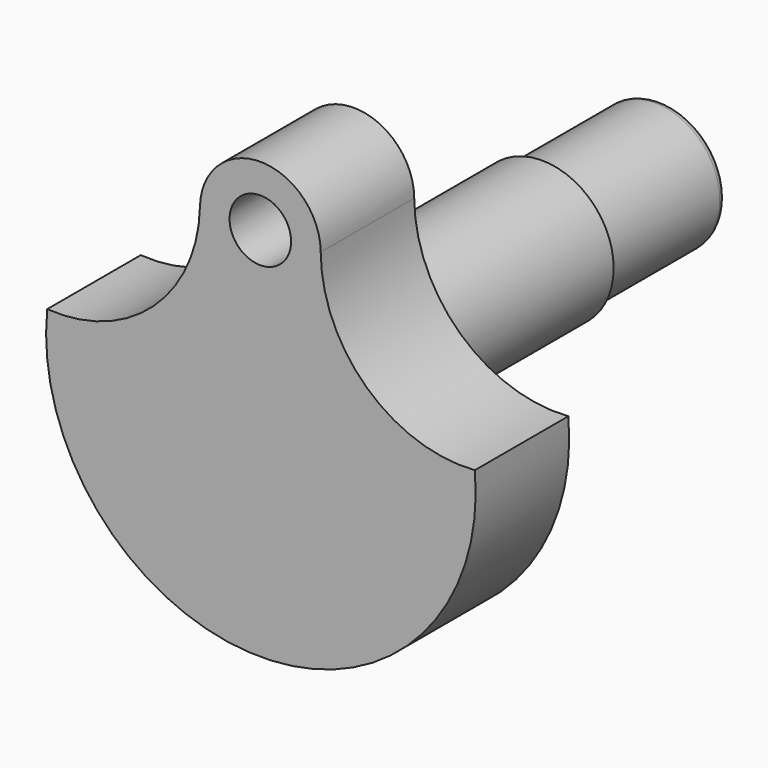
from build123d import *

# Parameters (mm, degrees)
F0_R     = 3.0099
F1_DEPTH = 11.43
F2_R     = 6.9977
F2_R_2   = 6.3373
F3_DEPTH = 23.0124
F4_DEPTH = 37.5666
F5_R     = 0.762


with BuildPart() as f1:
    # F0 (on Front) → F1 (new body)
    with BuildSketch(Plane.XZ):
        with BuildLine():
            ThreePointArc((20.977623, 1.152295), (10.42378, 4.807532), (5.905392, 15.021665))
            ThreePointArc((5.905392, 15.021665), (0.041118, 20.891357), (-5.904323, 15.103895))
            ThreePointArc((-5.904323, 15.103895), (-10.442291, 5.064331), (-20.839523, 1.41967))
            ThreePointArc((-20.839523, 1.41967), (-0.078135, -21.733629), (20.977623, 1.152295))
        make_face()
        with Locations((0, 14.986)):
            Circle(F0_R, mode=Mode.SUBTRACT)
    extrude(amount=F1_DEPTH)

    # F2 (on Front) → F3 (join)
    with BuildSketch(Plane.XZ):
        Circle(F2_R)
        Circle(F2_R_2, mode=Mode.SUBTRACT)
    extrude(amount=-F3_DEPTH)

    # F2 (on Front) → F4 (join)
    with BuildSketch(Plane.XZ):
        Circle(F2_R_2)
    extrude(amount=-F4_DEPTH)

    # F5
    f5_edges = [f1.edges().sort_by_distance(p)[0] for p in [
        (-6.3373, 37.5666, 0),
    ]]
    fillet(f5_edges, radius=F5_R)


solid = f1.part
